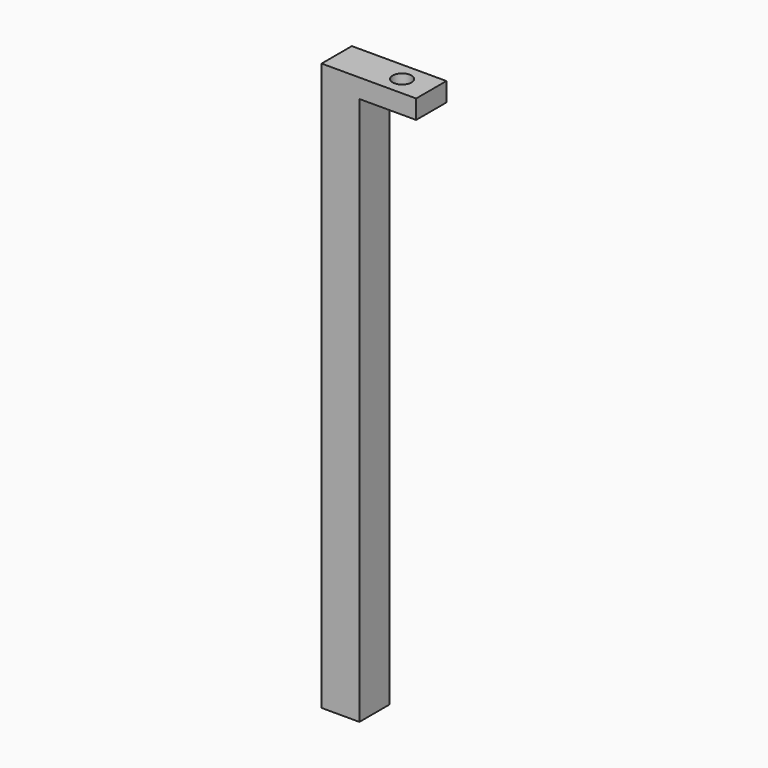
from build123d import *

# Parameters (mm, degrees)
F0_W     = 38.1
F0_H     = 12.7
F1_DEPTH = 12.7
F3_D     = 12.7


with BuildPart() as f1:
    # F0 (on Front) → F1 (new body, symmetric)
    with BuildSketch(Plane.XZ):
        with Locations((-66.002533, 184.358655)):
            Rectangle(F0_W, F0_H)
        Polygon((-85.052533, 190.708655), (-110.452533, 190.708655), (-110.452533, -190.291345), (-85.052533, -190.291345), (-85.052533, 178.008655), align=None)
    extrude(amount=F1_DEPTH, both=True)

    # F3 (through all)
    with Locations(Plane.XY.offset(190.708655)):
        with Locations((-66.514701, 0)):
            Hole(F3_D / 2)


solid = f1.part
